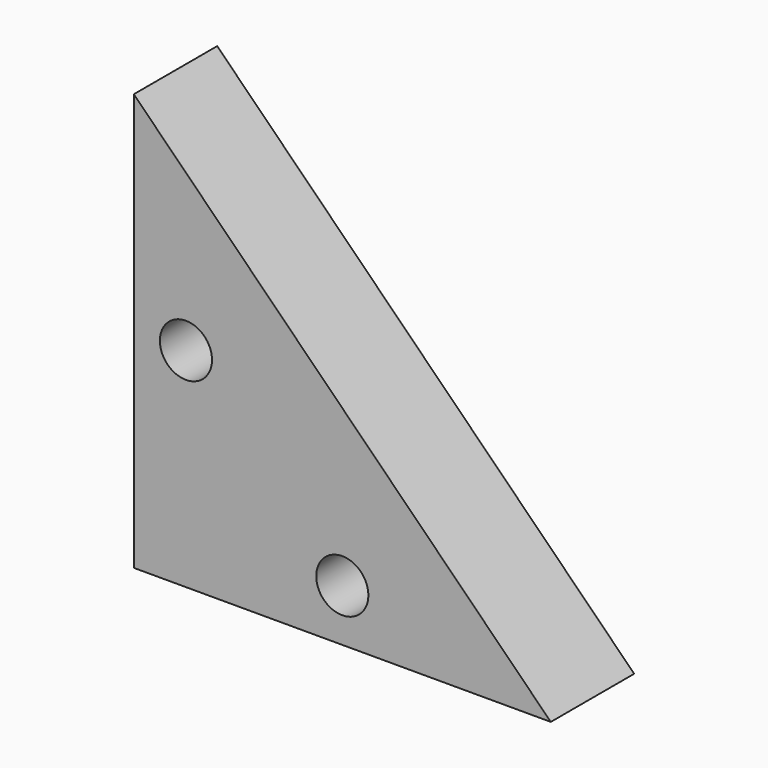
from build123d import *

# Parameters (mm, degrees)
F0_R     = 1.5875
F1_DEPTH = 6.35


with BuildPart() as f1:
    # F0 (on Front) → F1 (new body)
    with BuildSketch(Plane.XZ):
        Polygon((0, 25.4), (0, 0), (25.4, 0), align=None)
        with Locations((12.7, 3.175)):
            Circle(F0_R, mode=Mode.SUBTRACT)
        with Locations((3.175, 12.7)):
            Circle(F0_R, mode=Mode.SUBTRACT)
    extrude(amount=F1_DEPTH)


solid = f1.part
